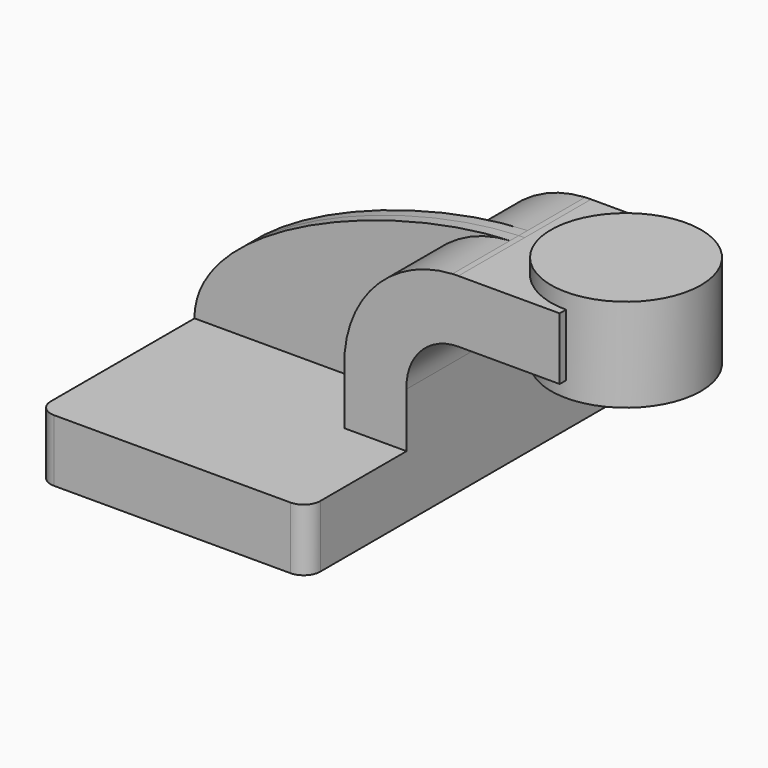
from build123d import *

# Parameters (mm, degrees)
F1_DEPTH = 63.5
F0_W     = 27.836654
F0_H     = 19.05
F2_DEPTH = 25.4
F3_DEPTH = 3.3655
F4_R     = 5.08


with BuildPart() as f1:
    # F0 (on Front) → F1 (new body, symmetric)
    with BuildSketch(Plane.XZ):
        Polygon((22.225, 9.525), (-41.275, 9.525), (-41.275, -9.525), (41.275, -9.525), (41.275, 9.525), align=None)
    extrude(amount=F1_DEPTH, both=True)

    # F0 (on Front) → F2 (join, symmetric)
    with BuildSketch(Plane.XZ):
        with BuildLine():
            Line((22.225, 25.90316), (22.225, 9.525))
            Line((22.225, 9.525), (41.275, 9.525))
            Line((41.275, 9.525), (41.275, 26.260685))
            ThreePointArc((41.275, 26.260685), (45.648964, 37.960944), (57.132766, 42.8752))
            Line((57.132766, 42.8752), (60.325, 42.8752))
            Line((60.325, 42.8752), (60.325, 61.9252))
            Line((60.325, 61.9252), (57.132766, 61.9252))
            add(Edge.make_bspline(
                [(57.132766, 61.9252), (56.532725, 61.915433), (55.926231, 61.899604), (55.313651, 61.877792)],
                knots=[0, 0, 0, 0, 1.808043, 1.808043, 1.808043, 1.808043], degree=3))
            ThreePointArc((55.313651, 61.877792), (31.427523, 50.643299), (22.225, 25.90316))
        make_face()
        with Locations((74.243327, 52.4002)):
            Rectangle(F0_W, F0_H)
    extrude(amount=F2_DEPTH, both=True)

    # F0 (on Front) → F3 (join, symmetric)
    with BuildSketch(Plane.XZ):
        with BuildLine():
            add(Edge.make_bspline(
                [(55.313651, 61.877792), (18.152726, 60.55465), (-41.403137, 37.216185), (-41.275, 9.525)],
                knots=[1.808043, 1.808043, 1.808043, 1.808043, 111.489324, 111.489324, 111.489324, 111.489324], degree=3))
            Line((-41.275, 9.525), (22.225, 9.525))
            Line((22.225, 9.525), (22.225, 25.90316))
            ThreePointArc((22.225, 25.90316), (31.427523, 50.643299), (55.313651, 61.877792))
        make_face()
    extrude(amount=F3_DEPTH, both=True)

    # F4
    f4_edges = [f1.edges().sort_by_distance(p)[0] for p in [
        (41.275, -63.5, 0),
        (-41.275, -63.5, 0),
        (41.275, 63.5, 0),
        (-41.275, 63.5, 0),
    ]]
    fillet(f4_edges, radius=F4_R)

    # F0 (on Front) → F5 (revolve)
    with BuildSketch(Plane.XZ):
        Polygon((88.161654, 66.675), (88.161654, 61.9252), (88.161654, 42.8752), (88.161654, 38.1), (111.125, 38.1), (111.125, 66.675), align=None)
    revolve(axis=Axis((88.161654, 0, 52.4002), (0, 0, 1)))


solid = f1.part
